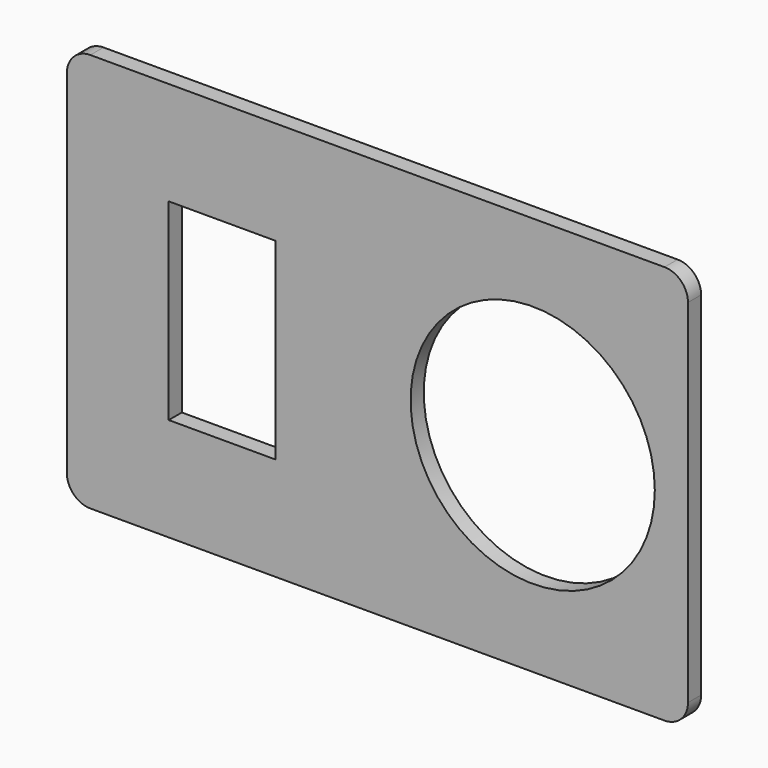
from build123d import *

# Parameters (mm, degrees)
F0_W     = 22.75
F0_H     = 41
F0_R     = 26
F1_DEPTH = 3.5


with BuildPart() as f1:
    # F0 (on Front) → F1 (new body)
    with BuildSketch(Plane.XZ):
        with BuildLine():
            Line((-61.125, -42.5), (61.125, -42.5))
            ThreePointArc((61.125, -42.5), (64.660534, -41.035534), (66.125, -37.5))
            Line((66.125, -37.5), (66.125, 37.5))
            ThreePointArc((66.125, 37.5), (64.660534, 41.035534), (61.125, 42.5))
            Line((61.125, 42.5), (-61.125, 42.5))
            ThreePointArc((-61.125, 42.5), (-64.660534, 41.035534), (-66.125, 37.5))
            Line((-66.125, 37.5), (-66.125, -37.5))
            ThreePointArc((-66.125, -37.5), (-64.660534, -41.035534), (-61.125, -42.5))
        make_face()
        with Locations((-33.0625, 0)):
            Rectangle(F0_W, F0_H, mode=Mode.SUBTRACT)
        with Locations((33.0625, 0)):
            Circle(F0_R, mode=Mode.SUBTRACT)
    extrude(amount=F1_DEPTH)


solid = f1.part
